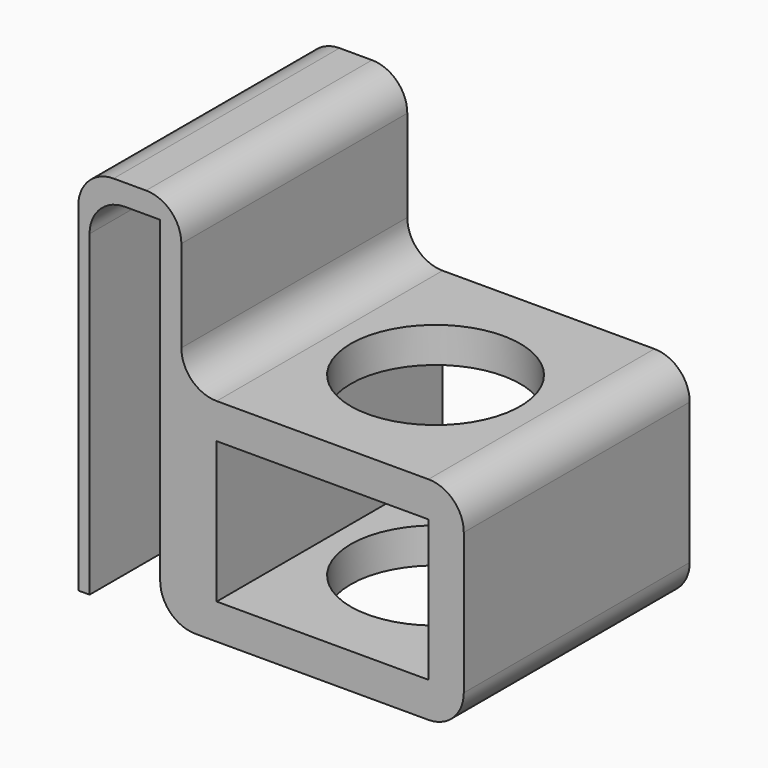
from build123d import *

# Parameters (mm, degrees)
F0_W     = 1.6
F0_H     = 50
F0_W_2   = 40
F0_H_2   = 30
F0_W_3   = 30
F0_H_3   = 20
F1_DEPTH = 20
F3_D     = 24
F4_R     = 5


with BuildPart() as f1:
    # F0 (on Front) → F1 (new body, symmetric)
    with BuildSketch(Plane.XZ):
        with Locations((-5.8, 33.0357266191)):
            Rectangle(F0_W, F0_H)
        Polygon((-6.6, 58.0357266191), (-5, 58.0357266191), (5, 58.0357266191), (5, 61.0357266191), (-6.6, 61.0357266191), align=None)
        Polygon((5, 61.0357266191), (5, 58.0357266191), (5, 8.0357266191), (8, 8.0357266191), (8, 38.0357266191), (8, 61.0357266191), align=None)
        with Locations((28, 23.0357266191)):
            Rectangle(F0_W_2, F0_H_2)
        with Locations((28, 23.0357266191)):
            Rectangle(F0_W_3, F0_H_3, mode=Mode.SUBTRACT)
    extrude(amount=F1_DEPTH, both=True)

    # F3 (through all)
    with Locations(Plane.XY.offset(38.0357266191)):
        with Locations((28, 0)):
            Hole(F3_D / 2)

    # F4
    f4_edges = [f1.edges().sort_by_distance(p)[0] for p in [
        (-5, 0, 58.035727),
        (8, 0, 38.035727),
        (8, 0, 61.035727),
        (-6.6, 0, 61.035727),
        (48, 0, 38.035727),
        (48, 0, 8.035727),
        (5, 0, 8.035727),
    ]]
    fillet(f4_edges, radius=F4_R)


solid = f1.part
